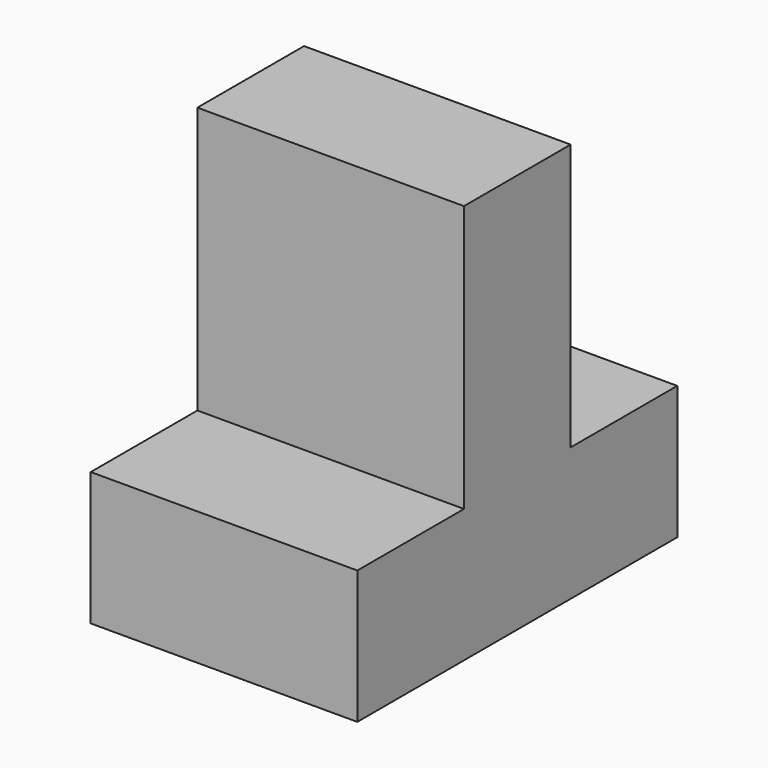
from build123d import *

# Parameters (mm, degrees)
F1_DEPTH = 50.8


with BuildPart() as f1:
    # F0 (on Right) → F1 (new body)
    with BuildSketch(Plane.YZ):
        Polygon((-50.8, -40.376164), (0, -40.376164), (25.4, -40.376164), (25.4, -14.976164), (0, -14.976164), (0, 35.823836), (-25.4, 35.823836), (-25.4, -14.976164), (-50.8, -14.976164), align=None)
    extrude(amount=F1_DEPTH)


solid = f1.part
